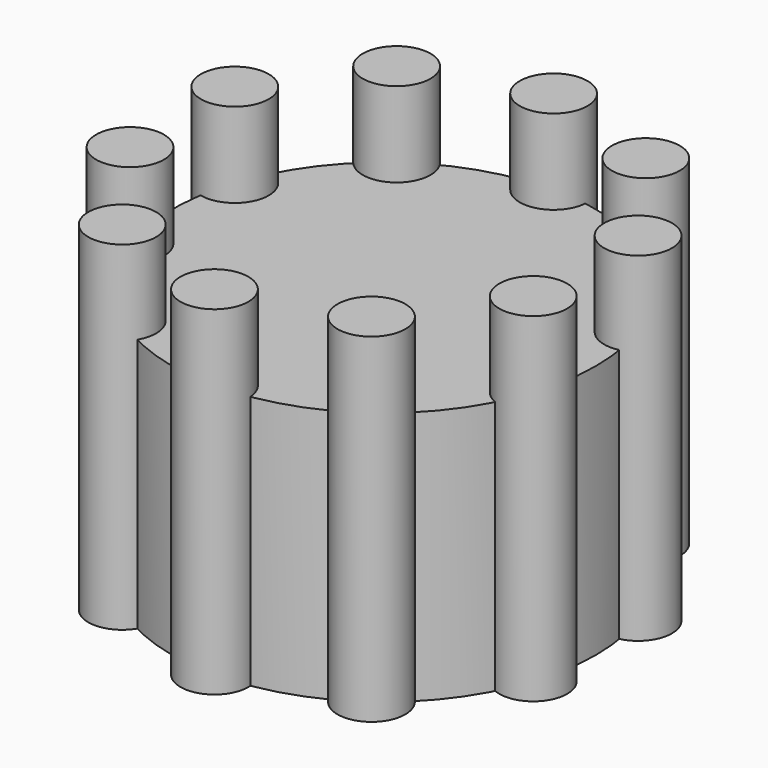
from build123d import *

# Parameters (mm, degrees)
F0_R     = 31.75
F1_DEPTH = 38.1
F2_R     = 5.08
F3_DEPTH = 50.8


with BuildPart() as f1:
    # F0 (on Top) → F1 (new body)
    with BuildSketch(Plane.XY):
        Circle(F0_R)
    extrude(amount=F1_DEPTH)


with BuildPart() as f3:
    # F2 (on Top) → F3 (new body)
    with BuildSketch(Plane.XY):
        with Locations((0, 31.75)):
            Circle(F2_R)
        with Locations((-18.662182, 25.68629)):
            Circle(F2_R)
        with Locations((-30.196044, 9.81129)):
            Circle(F2_R)
        with Locations((-30.196044, -9.81129)):
            Circle(F2_R)
        with Locations((-18.662182, -25.68629)):
            Circle(F2_R)
        with Locations((0, -31.75)):
            Circle(F2_R)
        with Locations((18.662182, -25.68629)):
            Circle(F2_R)
        with Locations((30.196044, -9.81129)):
            Circle(F2_R)
        with Locations((30.196044, 9.81129)):
            Circle(F2_R)
        with Locations((18.662182, 25.68629)):
            Circle(F2_R)
    extrude(amount=F3_DEPTH)


solid = Compound([f1.part, f3.part])
